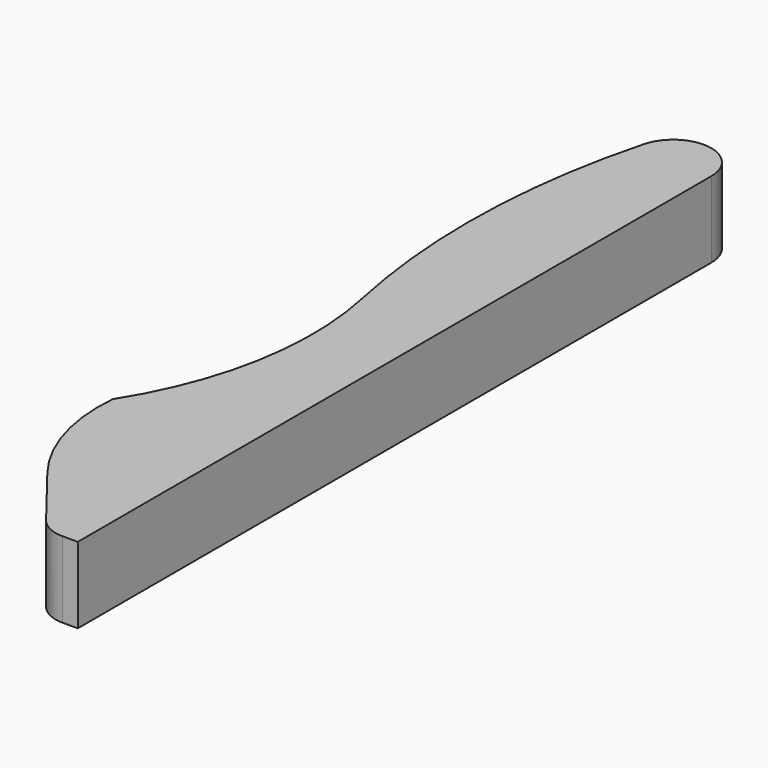
from build123d import *

# Parameters (mm, degrees)
PAD_DEPTH = 10


with BuildPart() as part:
    # Sketch → Pad (new body)
    with BuildSketch(Plane.XY):
        with BuildLine():
            Line((0, 0), (0, -104))
            Line((0, -104), (-2, -104))
            ThreePointArc((-5.547641, -102.268437), (-3.973833, -103.544006), (-2, -104))
            Line((-5.547641, -102.268437), (-12, -94))
            ThreePointArc((-17, -77), (-16.119734, -85.976392), (-12, -94))
            ThreePointArc((-17, -77), (-10.720846, -60.862897), (-11, -43.549436))
            ThreePointArc((-9.829475, 1.29467), (-13.070868, -21.058052), (-11, -43.549436))
            ThreePointArc((0, 0), (-4.347074, 4.957185), (-9.829475, 1.29467))
        make_face()
    extrude(amount=PAD_DEPTH)


solid = part.part
